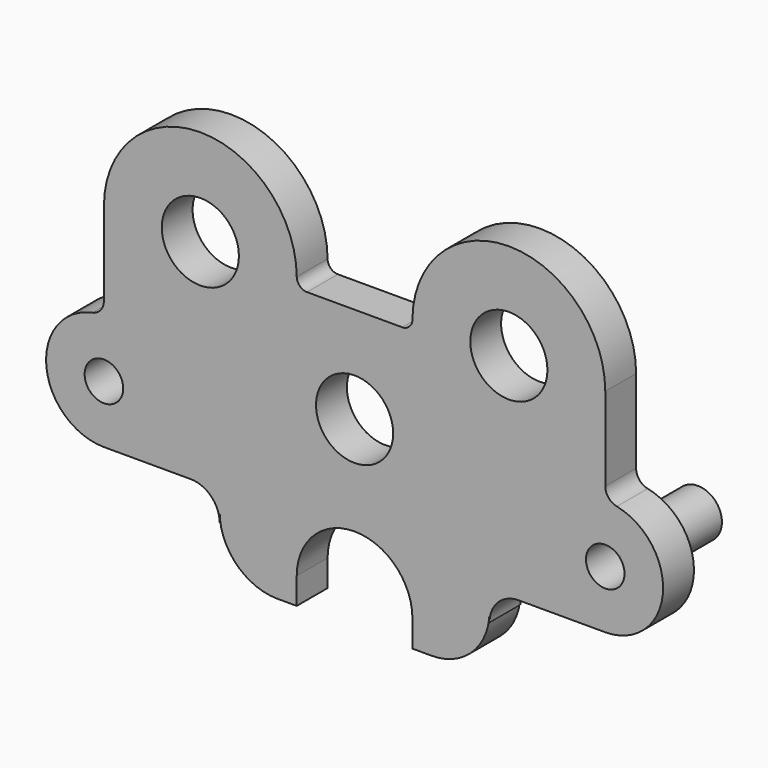
from build123d import *

# Parameters (mm, degrees)
F0_R     = 7.9375
F0_R_2   = 12.7
F0_R_3   = 6.35
F1_DEPTH = 12.7
F2_DEPTH = 25.4


with BuildPart() as f1:
    # F0 (on Front) → F1 (new body)
    with BuildSketch(Plane.XZ):
        with BuildLine():
            Line((82.55, 7.45639), (82.55, 34.925))
            ThreePointArc((82.55, 34.925), (50.896024, 66.674855), (19.050581, 35.117047))
            ThreePointArc((19.050581, 35.117047), (18.051201, 32.734953), (15.663106, 31.75))
            Line((15.663106, 31.75), (0, 31.75))
            Line((0, 31.75), (-15.663106, 31.75))
            ThreePointArc((-15.663106, 31.75), (-18.051201, 32.734953), (-19.050581, 35.117047))
            ThreePointArc((-19.050581, 35.117047), (-50.896024, 66.674855), (-82.55, 34.925))
            Line((-82.55, 34.925), (-82.55, 7.45639))
            ThreePointArc((-82.55, 7.45639), (-83.623483, 4.44432), (-86.36, 2.790112))
            ThreePointArc((-86.36, 2.790112), (-101.503534, -17.789696), (-82.55, -34.925))
            Line((-82.55, -34.925), (-53.975, -34.925))
            ThreePointArc((-53.975, -34.925), (-47.239808, -37.714808), (-44.45, -44.45))
            Line((-44.45, -44.45), (-44.45, -41.275))
            ThreePointArc((-44.45, -41.275), (-38.870384, -54.745384), (-25.4, -60.325))
            Line((-25.4, -60.325), (-19.05, -60.325))
            Line((-19.05, -60.325), (-19.05, -51.58833))
            ThreePointArc((-19.05, -51.58833), (0, -32.53833), (19.05, -51.58833))
            Line((19.05, -51.58833), (19.05, -60.325))
            Line((19.05, -60.325), (25.4, -60.325))
            ThreePointArc((25.4, -60.325), (38.870384, -54.745384), (44.45, -41.275))
            Line((44.45, -41.275), (44.45, -44.45))
            ThreePointArc((44.45, -44.45), (47.239808, -37.714808), (53.975, -34.925))
            Line((53.975, -34.925), (82.55, -34.925))
            ThreePointArc((82.55, -34.925), (101.503534, -17.789696), (86.36, 2.790112))
            ThreePointArc((86.36, 2.790112), (83.623483, 4.44432), (82.55, 7.45639))
        make_face()
        with Locations((-82.55, -15.875)):
            Circle(F0_R, mode=Mode.SUBTRACT)
        Circle(F0_R_2, mode=Mode.SUBTRACT)
        with Locations((82.55, -15.875)):
            Circle(F0_R, mode=Mode.SUBTRACT)
        with Locations((-50.8, 34.925)):
            Circle(F0_R_2, mode=Mode.SUBTRACT)
        with Locations((50.8, 34.925)):
            Circle(F0_R_2, mode=Mode.SUBTRACT)
        with Locations((-82.55, -15.875)):
            Circle(F0_R)
        with Locations((-82.55, -15.875)):
            Circle(F0_R_3, mode=Mode.SUBTRACT)
        with Locations((82.55, -15.875)):
            Circle(F0_R)
        with Locations((82.55, -15.875)):
            Circle(F0_R_3, mode=Mode.SUBTRACT)
    extrude(amount=F1_DEPTH)

    # F0 (on Front) → F2 (join)
    with BuildSketch(Plane.XZ):
        with Locations((82.55, -15.875)):
            Circle(F0_R)
        with Locations((82.55, -15.875)):
            Circle(F0_R_3, mode=Mode.SUBTRACT)
        with Locations((-82.55, -15.875)):
            Circle(F0_R)
        with Locations((-82.55, -15.875)):
            Circle(F0_R_3, mode=Mode.SUBTRACT)
    extrude(amount=-F2_DEPTH)


solid = f1.part
